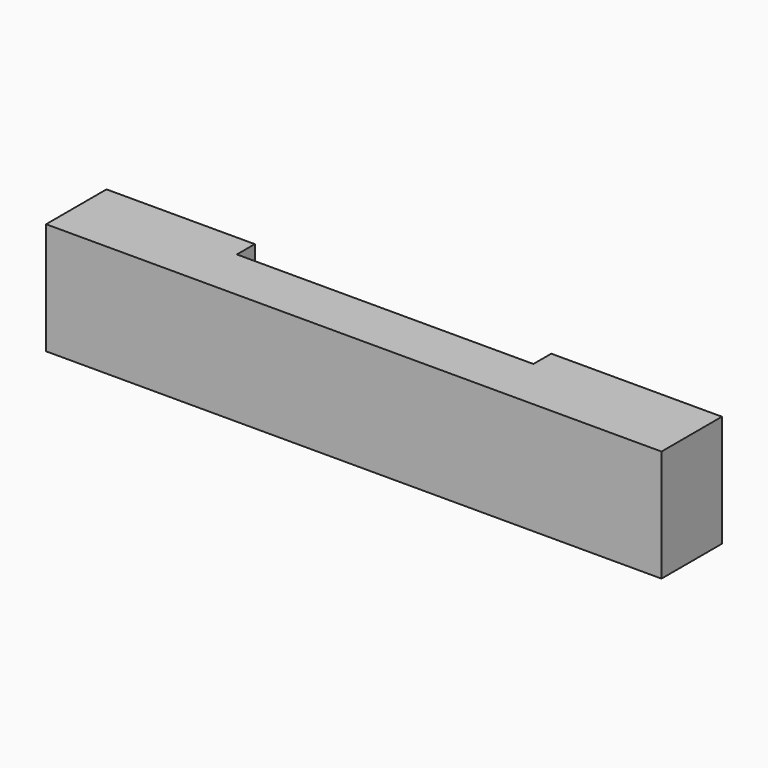
from build123d import *

# Parameters (mm, degrees)
F0_W     = 698.5
F0_H     = 85.725
F2_DEPTH = 127
F1_W     = 336.55
F1_H     = 25.4
F3_DEPTH = 127


with BuildPart() as f2:
    # F0 (on Top) → F2 (new body)
    with BuildSketch(Plane.XY):
        with Locations((0, -296.8625)):
            Rectangle(F0_W, F0_H)
    extrude(amount=F2_DEPTH)

    # F1 (on face) → F3 (cut)
    with BuildSketch(Plane.XY):
        with Locations((-12.7, -266.7)):
            Rectangle(F1_W, F1_H)
    extrude(amount=F3_DEPTH, mode=Mode.SUBTRACT)


solid = f2.part
